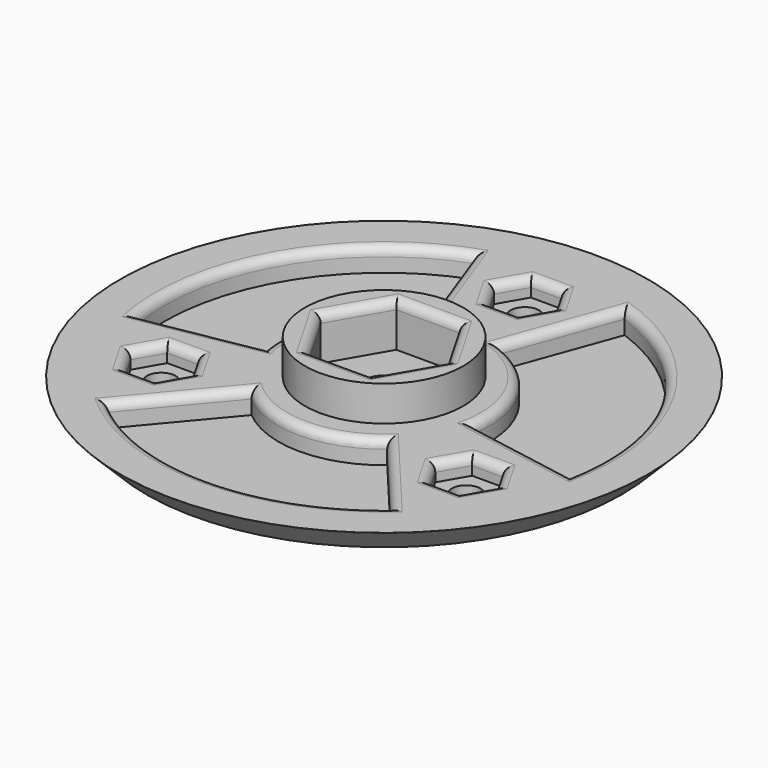
from build123d import *

# Parameters (mm, degrees)
SKETCH004_R           = 30
SKETCH004_R_2         = 2.2
PAD001_DEPTH          = 3
POCKET004_DEPTH       = 2
POLARPATTERN002_COUNT = 3
POCKET002_DEPTH       = 2.6
POLARPATTERN004_COUNT = 3
SKETCH006_R           = 9
PAD_DEPTH             = 4
SKETCH007_R           = 1.625
POCKET_DEPTH          = 5
POLARPATTERN_COUNT    = 3
POCKET005_DEPTH       = 5
FILLET_R              = 1
CHAMFER_SIZE          = 2.99


with BuildPart() as part:
    # Sketch004 → Pad001 (new body)
    with BuildSketch(Plane.XY):
        Circle(SKETCH004_R)
        Circle(SKETCH004_R_2, mode=Mode.SUBTRACT)
    extrude(amount=PAD001_DEPTH)

    # Sketch005 (on Face4 of Pad001) → Pocket004 (cut)
    with BuildSketch(Plane.XY.offset(3)):
        Polygon((-1.75, 23.031089), (1.75, 23.031089), (3.5, 20), (1.75, 16.968911), (-1.75, 16.968911), (-3.5, 20), align=None)
    pocket004 = extrude(amount=-POCKET004_DEPTH, mode=Mode.SUBTRACT)

    # PolarPattern002: Pocket004 ×3 about axis
    polarpattern002_axis = Axis((0, 0, 3), (0, 0, 1))
    for i in range(1, POLARPATTERN002_COUNT):
        add(pocket004.rotate(polarpattern002_axis, i * 360 / POLARPATTERN002_COUNT), mode=Mode.SUBTRACT)

    # Sketch003 → Pocket002 (cut)
    with BuildSketch(Plane.XY.offset(3)):
        with BuildLine():
            ThreePointArc((-8.550504, 23.492316), (-21.650635, 12.5), (-24.620194, -4.341204))
            Line((-24.620194, -4.341204), (-11.817693, -2.083778))
            ThreePointArc((-4.104242, 11.276311), (-10.392305, 6), (-11.817693, -2.083778))
            Line((-8.550504, 23.492316), (-4.104242, 11.276311))
        make_face()
    pocket002 = extrude(amount=-POCKET002_DEPTH, mode=Mode.SUBTRACT)

    # PolarPattern004: Pocket002 ×3 about axis
    polarpattern004_axis = Axis((0, 0, 3), (0, 0, 1))
    for i in range(1, POLARPATTERN004_COUNT):
        add(pocket002.rotate(polarpattern004_axis, i * 360 / POLARPATTERN004_COUNT), mode=Mode.SUBTRACT)

    # Sketch006 → Pad (join)
    with BuildSketch(Plane.XY.offset(3)):
        Circle(SKETCH006_R)
    extrude(amount=PAD_DEPTH)

    # Sketch007 (on Face3 of PolarPattern002) → Pocket (cut)
    with BuildSketch(Plane.XY.offset(3)):
        with Locations((0, 20)):
            Circle(SKETCH007_R)
    pocket = extrude(amount=-POCKET_DEPTH, mode=Mode.SUBTRACT)

    # PolarPattern: Pocket ×3 about axis
    polarpattern_axis = Axis((0, 0, 3), (0, 0, 1))
    for i in range(1, POLARPATTERN_COUNT):
        add(pocket.rotate(polarpattern_axis, i * 360 / POLARPATTERN_COUNT), mode=Mode.SUBTRACT)

    # Sketch (on Face46 of PolarPattern) → Pocket005 (cut)
    with BuildSketch(Plane.XY.offset(7)):
        Polygon((-3.6, 6.235383), (3.6, 6.235383), (7.2, 0), (3.6, -6.235383), (-3.6, -6.235383), (-7.2, 0), align=None)
    extrude(amount=-POCKET005_DEPTH, mode=Mode.SUBTRACT)

    # Fillet
    fillet_edges = [part.edges().sort_by_distance(p)[0] for p in [
        (0, 23.031089, 3),
        (2.625, 21.515544, 3),
        (2.625, 18.484456, 3),
        (0, 16.968911, 3),
        (-2.625, 18.484456, 3),
        (-2.625, 21.515544, 3),
        (-6.327373, 17.384313, 3),
        (-21.650635, 12.5, 3),
        (-10.392305, 6, 3),
        (-18.218943, -3.212491, 3),
        (-17.320508, -6.968911, 3),
        (-19.945508, -8.484456, 3),
        (-14.695508, -8.484456, 3),
        (-14.695508, -11.515544, 3),
        (-17.320508, -13.031089, 3),
        (-19.945508, -11.515544, 3),
        (0, -12, 3),
        (-11.891571, -14.171822, 3),
        (11.891571, -14.171822, 3),
        (0, -25, 3),
        (17.320508, -6.968911, 3),
        (19.945508, -8.484456, 3),
        (19.945508, -11.515544, 3),
        (17.320508, -13.031089, 3),
        (14.695508, -11.515544, 3),
        (14.695508, -8.484456, 3),
        (18.218943, -3.212491, 3),
        (21.650635, 12.5, 3),
        (6.327373, 17.384313, 3),
        (10.392305, 6, 3),
        (0, 6.235383, 7),
        (5.4, 3.117691, 7),
        (5.4, -3.117691, 7),
        (0, -6.235383, 7),
        (-5.4, -3.117691, 7),
        (-5.4, 3.117691, 7),
    ]]
    fillet(fillet_edges, radius=FILLET_R)

    # Chamfer
    chamfer_edges = [part.edges().sort_by_distance(p)[0] for p in [
        (-30, 0, 0),
    ]]
    chamfer(chamfer_edges, length=CHAMFER_SIZE)


solid = part.part
